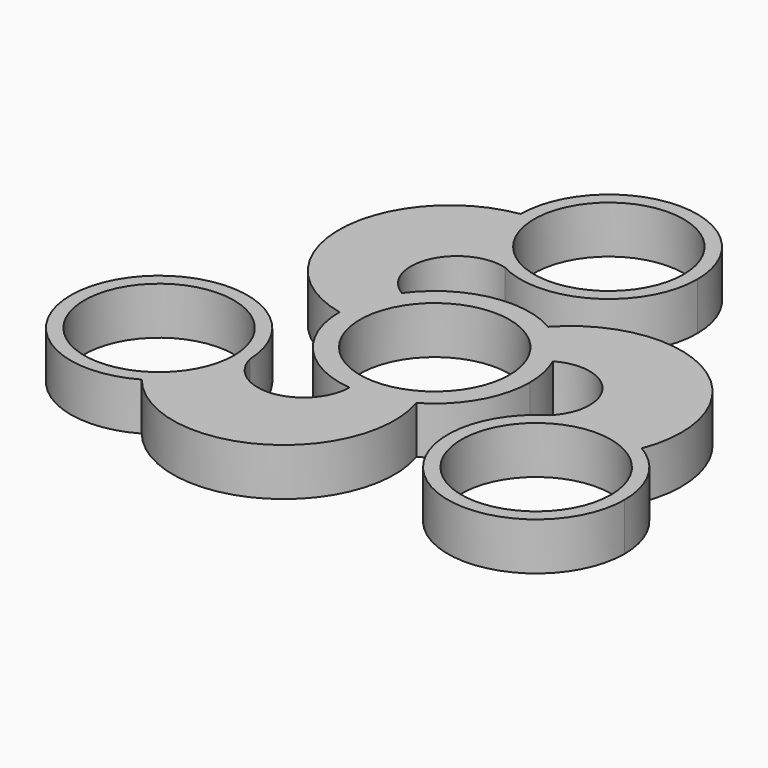
from build123d import *

# Parameters (mm, degrees)
F0_R     = 11
F1_DEPTH = 7
F2_R     = 11
F3_DEPTH = 25


with BuildPart() as f1:
    # F0 (on Top) → F1 (new body)
    with BuildSketch(Plane.XY):
        with BuildLine():
            ThreePointArc((-12.999936, 32.05848), (-11.151201, 25.335719), (-6.094791, 20.535089))
            ThreePointArc((-6.094791, 20.535089), (6.699542, 20.877096), (13, 32.017838))
            ThreePointArc((13, 32.017838), (0.020321, 45.017822), (-12.999936, 32.05848))
        make_face()
        with BuildLine():
            ThreePointArc((-14, 0), (-13.324963, 4.294805), (-11.36495, 8.175446))
            ThreePointArc((-11.36495, 8.175446), (-14.175479, 16.677278), (-6.094791, 20.535089))
            ThreePointArc((-6.094791, 20.535089), (-11.151201, 25.335719), (-12.999936, 32.05848))
            ThreePointArc((-12.999936, 32.05848), (-26.830441, 16.445084), (-14, 0))
        make_face()
        with BuildLine():
            ThreePointArc((7, 12.124356), (10.381892, 9.392354), (12.762619, 5.754612))
            ThreePointArc((12.762619, 5.754612), (21.530686, 3.937686), (20.831304, -4.989301))
            ThreePointArc((20.831304, -4.989301), (27.516977, -3.010636), (34.263426, -4.770965))
            ThreePointArc((34.263426, -4.770965), (27.657081, 15.013302), (7, 12.124356))
        make_face()
        with BuildLine():
            ThreePointArc((34.263426, -4.770965), (27.516977, -3.010636), (20.831304, -4.989301))
            ThreePointArc((20.831304, -4.989301), (21.429866, -27.381264), (40.728261, -16.008919))
            ThreePointArc((40.728261, -16.008919), (38.996738, -9.526525), (34.263426, -4.770965))
        make_face()
        with BuildLine():
            ThreePointArc((-14.736514, -15.545788), (-39.090747, -9.692755), (-21.263489, -27.287515))
            ThreePointArc((-21.263489, -27.287515), (-16.480105, -22.526509), (-14.728261, -16.008919))
            ThreePointArc((-14.728261, -16.008919), (-14.730324, -15.777317), (-14.736514, -15.545788))
        make_face()
        with BuildLine():
            ThreePointArc((-21.263489, -27.287515), (-0.82664, -31.458385), (7, -12.124356))
            ThreePointArc((7, -12.124356), (2.943071, -13.687159), (-1.397669, -13.930058))
            ThreePointArc((-1.397669, -13.930058), (-7.355207, -20.614964), (-14.736514, -15.545788))
            ThreePointArc((-14.736514, -15.545788), (-14.730324, -15.777317), (-14.728261, -16.008919))
            ThreePointArc((-14.728261, -16.008919), (-16.480105, -22.526509), (-21.263489, -27.287515))
        make_face()
        with BuildLine():
            ThreePointArc((7, -12.124356), (12.124356, -7), (14, 0))
            ThreePointArc((14, 0), (13.687159, 2.943071), (12.762619, 5.754612))
            ThreePointArc((12.762619, 5.754612), (10.381892, 9.392354), (7, 12.124356))
            ThreePointArc((7, 12.124356), (-2.943071, 13.687159), (-11.36495, 8.175446))
            ThreePointArc((-11.36495, 8.175446), (-13.324963, 4.294805), (-14, 0))
            ThreePointArc((-14, 0), (-10.381892, -9.392354), (-1.397669, -13.930058))
            ThreePointArc((-1.397669, -13.930058), (2.943071, -13.687159), (7, -12.124356))
        make_face()
        Circle(F0_R, mode=Mode.SUBTRACT)
    extrude(amount=F1_DEPTH)

    # F2 (on face) → F3 (cut)
    with BuildSketch(Plane.XY.offset(7)):
        with Locations((0, 32.017838)):
            Circle(F2_R)
        with Locations((27.728261, -16.008919)):
            Circle(F2_R)
        with Locations((-27.728261, -16.008919)):
            Circle(F2_R)
    extrude(amount=-F3_DEPTH, mode=Mode.SUBTRACT)


solid = f1.part
